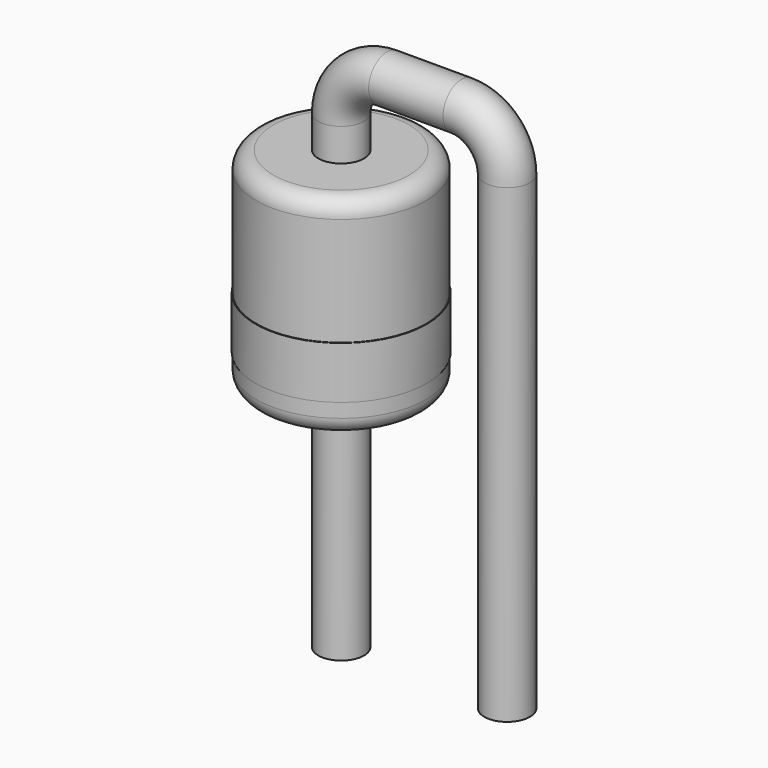
from build123d import *

# Parameters (mm, degrees)
SKETCH001_R = 0.35
SKETCH003_W = 0.02
SKETCH003_H = 0.8
SKETCH002_W = 1.3
SKETCH002_H = 3.2
FILLET_R    = 0.26


with BuildPart() as sweep_body:
    # Sweep: sweep along a path in Sketch
    with BuildLine(Plane.XZ) as sweep_path:
        Line((0, -3), (0, 4.2))
        ThreePointArc((0, 4.2), (0.205025, 4.694975), (0.7, 4.9))
        Line((0.7, 4.9), (1.84, 4.9))
        ThreePointArc((1.84, 4.9), (2.334975, 4.694975), (2.54, 4.2))
        Line((2.54, 4.2), (2.54, -3))
    # Sketch001 → Sweep (sweep)
    with BuildSketch(Plane.XY):
        Circle(SKETCH001_R)
    sweep(path=sweep_path.line)


with BuildPart() as revolution001:
    # Sketch003 → Revolution001 (revolve)
    with BuildSketch(Plane.XZ):
        with Locations((1.3, 1.38)):
            Rectangle(SKETCH003_W, SKETCH003_H)
    revolve(axis=Axis((0, 0, 5.9), (0, 0, 1)))


with BuildPart() as fillet_body:
    # Sketch002 → Revolution (revolve)
    with BuildSketch(Plane.XZ):
        with Locations((0.65, 2.1)):
            Rectangle(SKETCH002_W, SKETCH002_H)
    revolve(axis=Axis((0, 0, 0.5), (0, 0, 1)))

    # Fillet
    fillet_edges = [fillet_body.edges().sort_by_distance(p)[0] for p in [
        (-1.3, 0, 3.7),
        (-1.3, 0, 0.5),
    ]]
    fillet(fillet_edges, radius=FILLET_R)


solid = Compound([sweep_body.part, revolution001.part, fillet_body.part])
